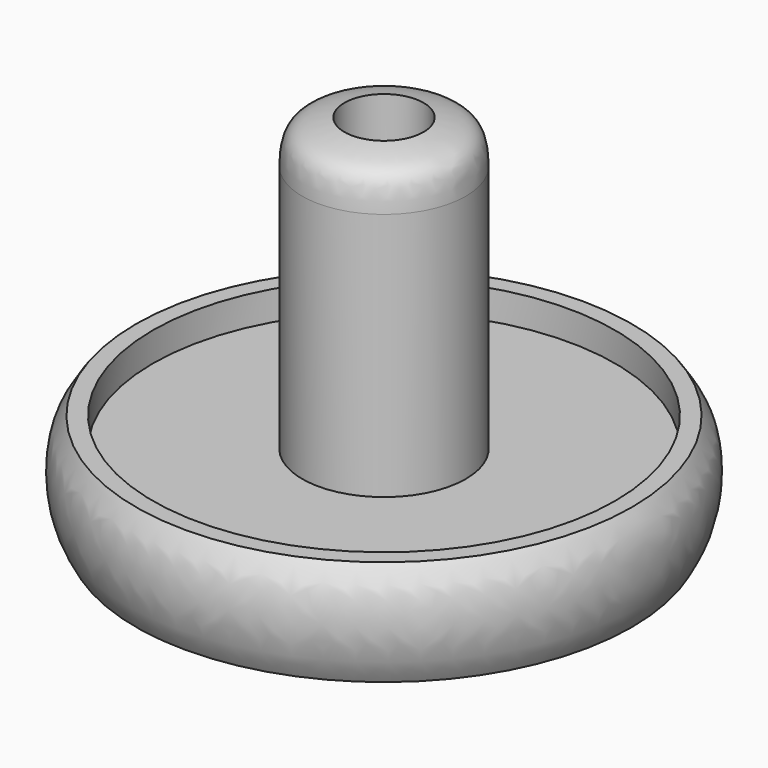
from build123d import *

# Parameters (mm, degrees)
F0_W   = 2.032
F0_H   = 3.5161375999
F0_H_2 = 3.7984182127


with BuildPart() as f1:
    # F0 (on Front) → F1 (revolve)
    with BuildSketch(Plane.XZ):
        with BuildLine():
            add(Edge.make_bspline(
                [(9.8425, 44.4575436413), (9.7839845115, 45.8562221224), (9.6608982492, 48.7740941859), (6.4413978333, 49.328065318), (4.7625, 49.6088718547)],
                knots=[0, 0, 0, 0, 0.4787127794, 1, 1, 1, 1], degree=3))
            Line((4.7625, 49.6088718547), (4.7625, 40.0838718547))
            Line((4.7625, 40.0838718547), (4.7625, 14.5083051175))
            Line((4.7625, 14.5083051175), (9.8425, 14.5083051175))
            Line((9.8425, 14.5083051175), (9.8425, 44.4575436413))
        make_face()
        Polygon((4.7625, 14.5083051175), (4.7625, 40.0838718547), (0, 40.0838718547), (0, 14.8882698268), (1.5875, 14.8882698268), (1.5875, -3.9851281453), (4.7625, 9.1208834201), (27.813, 9.1208834201), (27.813, 14.5083051175), (9.8425, 14.5083051175), align=None)
        with Locations((28.829, 16.2663739175)):
            Rectangle(F0_W, F0_H)
        Polygon((29.845, 14.5083051175), (27.813, 14.5083051175), (27.813, 9.1208834201), (29.845, 9.1208834201), (29.845, 11.8057662621), align=None)
        with BuildLine():
            Line((29.845, 18.0244427174), (29.845, 14.5083051175))
            Line((29.845, 14.5083051175), (29.845, 11.8057662621))
            Line((29.845, 11.8057662621), (29.845, 9.1208834201))
            Line((29.845, 9.1208834201), (29.845, 5.3224652074))
            add(Edge.make_bspline(
                [(29.845, 5.3224652074), (30.3025890093, 6.1582561658), (31.2861081088, 7.9546637588), (31.9451527508, 11.7786724446), (31.4898737031, 15.7306460213), (30.3597593214, 17.3066044855), (29.845, 18.0244427174)],
                knots=[0, 0, 0, 0, 0.2344851114, 0.5039906574, 0.7740711589, 1, 1, 1, 1], degree=3))
        make_face()
        with Locations((28.829, 7.2216743138)):
            Rectangle(F0_W, F0_H_2)
    revolve(axis=Axis((0, 0, 27.4860708408), (0, 0, -1)))


solid = f1.part
